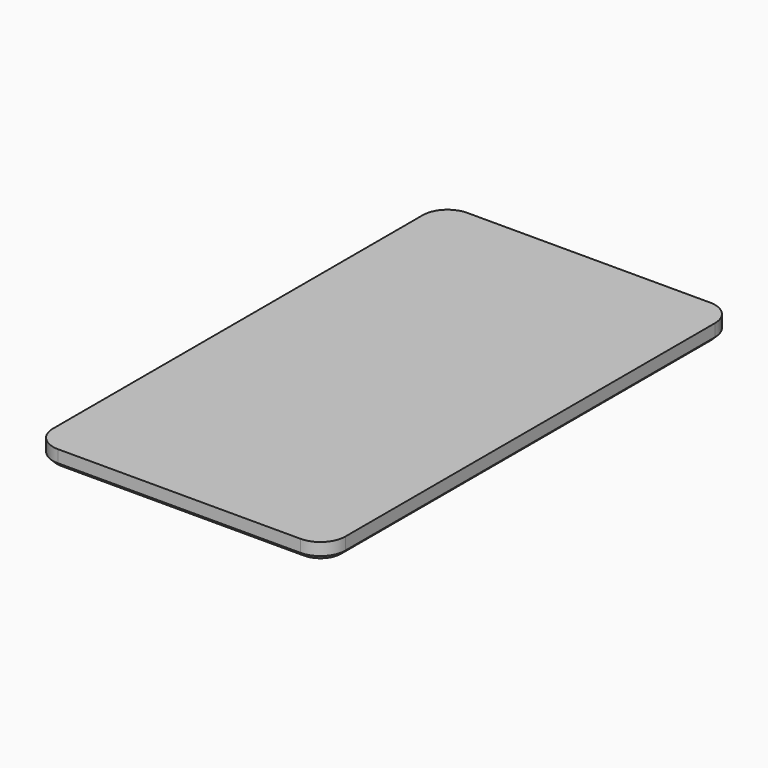
from build123d import *

# Parameters (mm, degrees)
F0_W     = 89.835614
F0_H     = 157.285422
F1_DEPTH = 5.067615
F2_R     = 7.62
F3_SIZE  = 1.27
F4_W     = 20.402283
F4_H     = 1.982419
F5_DEPTH = 0.254
F6_R     = 0.508
F8_DEPTH = 4.161017


with BuildPart() as f1:
    # F0 (on Top) → F1 (new body)
    with BuildSketch(Plane.XY):
        Rectangle(F0_W, F0_H)
    extrude(amount=F1_DEPTH)

    # F2
    f2_edges = [f1.edges().sort_by_distance(p)[0] for p in [
        (-44.917807, -78.642711, 2.533807),
        (44.917807, -78.642711, 2.533807),
        (44.917807, 78.642711, 2.533807),
        (-44.917807, 78.642711, 2.533807),
    ]]
    fillet(f2_edges, radius=F2_R)

    # F3
    f3_edges = [f1.edges().sort_by_distance(p)[0] for p in [
        (0, -78.642711, 0),
        (-42.685961, -76.410865, 0),
        (42.685961, -76.410865, 0),
        (-44.917807, 0, 0),
        (44.917807, 0, 0),
        (-42.685961, 76.410865, 0),
        (42.685961, 76.410865, 0),
        (0, 78.642711, 0),
    ]]
    chamfer(f3_edges, length=F3_SIZE)

    # F4 (on face) → F5 (join)
    with BuildSketch(Plane(origin=(-44.917807, 0, 0), x_dir=(0, -1, 0), z_dir=(-1, 0, 0))):
        with Locations((-44.85131, 3.168807)):
            Rectangle(F4_W, F4_H)
    extrude(amount=F5_DEPTH)

    # F6
    f6_edges = [f1.edges().sort_by_distance(p)[0] for p in [
        (-45.044807, 34.650169, 4.160017),
        (-45.044807, 34.650169, 2.177598),
        (-45.044807, 55.052452, 4.160017),
        (-45.044807, 55.052452, 2.177598),
    ]]
    fillet(f6_edges, radius=F6_R)

    # F7 (on face) → F8 (cut, through all)
    with BuildSketch(Plane.XY.offset(4.160017)):
        Polygon((-45.171807, 44.38271), (-45.171807, 45.319911), (-45.36023, 45.319911), (-45.403026, 44.620808), align=None)
        with BuildLine():
            add(Edge.make_bspline(
                [(-45.171807, 45.319911), (-45.171807, 44.950147), (-45.145225, 44.954358), (-44.987373, 44.851311)],
                knots=[0, 0, 0, 0, 0.503589, 0.503589, 0.503589, 0.503589], degree=3))
            Line((-45.171807, 45.319911), (-45.171807, 44.38271))
            add(Edge.make_bspline(
                [(-45.171807, 44.38271), (-45.171807, 44.752474), (-45.145225, 44.748263), (-44.987373, 44.851311)],
                knots=[0, 0, 0, 0, 0.503589, 0.503589, 0.503589, 0.503589], degree=3))
        make_face()
    extrude(amount=-F8_DEPTH, mode=Mode.SUBTRACT)


solid = f1.part
